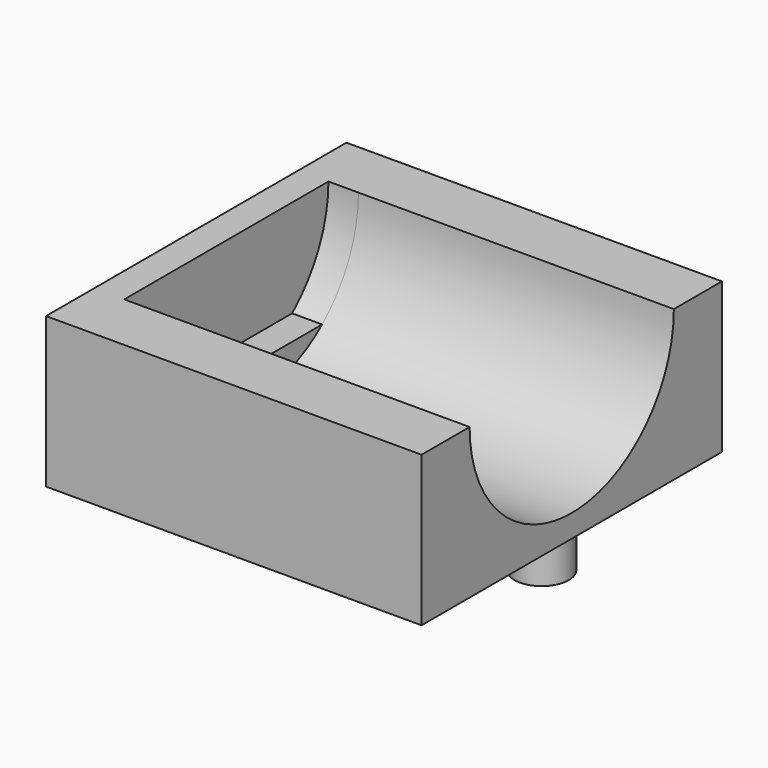
from build123d import *

# Parameters (mm, degrees)
F0_W     = 63.5
F0_H     = 63.5
F1_DEPTH = 25.4
F2_R     = 21.59
F3_DEPTH = 53.34
F4_R     = 4.572
F5_DEPTH = 6.35
F7_DEPTH = 5.08
F8_DEPTH = 5.08


with BuildPart() as f1:
    # F0 (on Top) → F1 (new body)
    with BuildSketch(Plane.XY):
        Rectangle(F0_W, F0_H)
    extrude(amount=F1_DEPTH)

    # F2 (on face) → F3 (cut)
    with BuildSketch(Plane.YZ.offset(31.75)):
        with Locations((0, 25.4)):
            Circle(F2_R)
    extrude(amount=-F3_DEPTH, mode=Mode.SUBTRACT)

    # F4 (on face) → F5 (join)
    with BuildSketch(Plane(origin=(0, 0, 0), x_dir=(1, 0, 0), z_dir=(0, 0, -1))):
        with Locations((26.67, 0)):
            Circle(F4_R)
    extrude(amount=F5_DEPTH)

    # F6 (on face) → F7 (cut)
    with BuildSketch(Plane.YZ.offset(-21.59)):
        with BuildLine():
            Line((-2.54, 8.89), (-2.54, 3.9599323695))
            ThreePointArc((-2.54, 3.9599323695), (0, 3.81), (2.54, 3.9599323695))
            Line((2.54, 3.9599323695), (2.54, 8.89))
            Line((2.54, 8.89), (13.9121529606, 8.89))
            ThreePointArc((13.9121529606, 8.89), (0, 46.99), (-13.9121529606, 8.89))
            Line((-13.9121529606, 8.89), (-2.54, 8.89))
        make_face()
    extrude(amount=-F7_DEPTH, mode=Mode.SUBTRACT)

    # F6 (on face) → F8 (cut)
    with BuildSketch(Plane.YZ.offset(-21.59)):
        with BuildLine():
            Line((-2.54, 8.89), (-2.54, 3.9599323695))
            ThreePointArc((-2.54, 3.9599323695), (0, 3.81), (2.54, 3.9599323695))
            Line((2.54, 3.9599323695), (2.54, 8.89))
            Line((2.54, 8.89), (13.9121529606, 8.89))
            ThreePointArc((13.9121529606, 8.89), (0, 46.99), (-13.9121529606, 8.89))
            Line((-13.9121529606, 8.89), (-2.54, 8.89))
        make_face()
    extrude(amount=-F8_DEPTH, mode=Mode.SUBTRACT)


solid = f1.part
